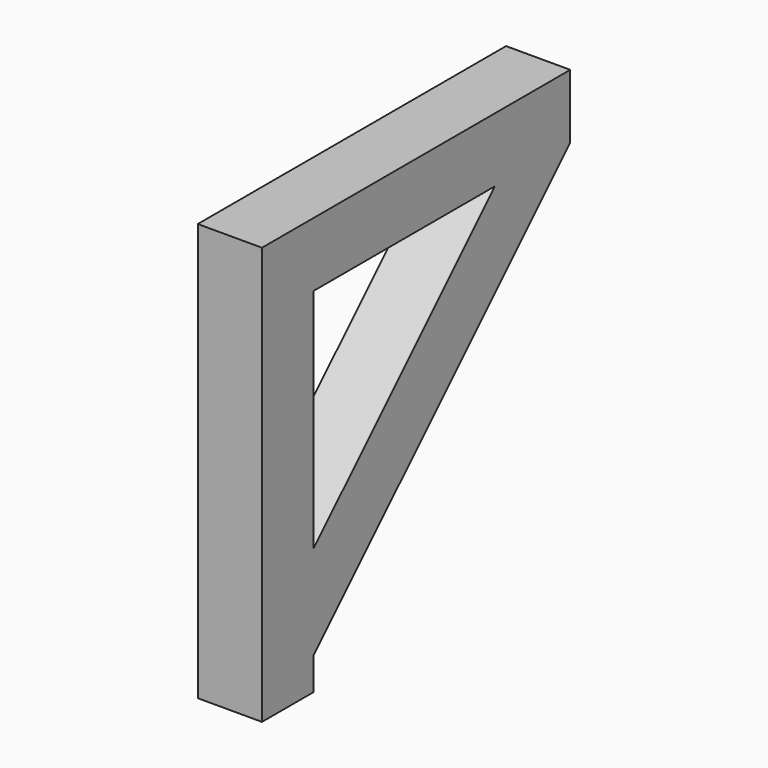
from build123d import *

# Parameters (mm, degrees)
F1_DEPTH = 12.7


with BuildPart() as f1:
    # F0 (on Right) → F1 (new body)
    with BuildSketch(Plane.YZ):
        Polygon((12.7, -12.7), (0, -12.7), (0, -82.55), (12.7, -82.55), (12.7, -76.2), (12.7, -57.601281), align=None)
        Polygon((76.2, -12.7), (76.2, 0), (0, 0), (0, -12.7), (12.7, -12.7), (57.601281, -12.7), align=None)
        Polygon((12.7, -76.2), (76.2, -12.7), (57.601281, -12.7), (12.7, -57.601281), align=None)
    extrude(amount=F1_DEPTH)


solid = f1.part
